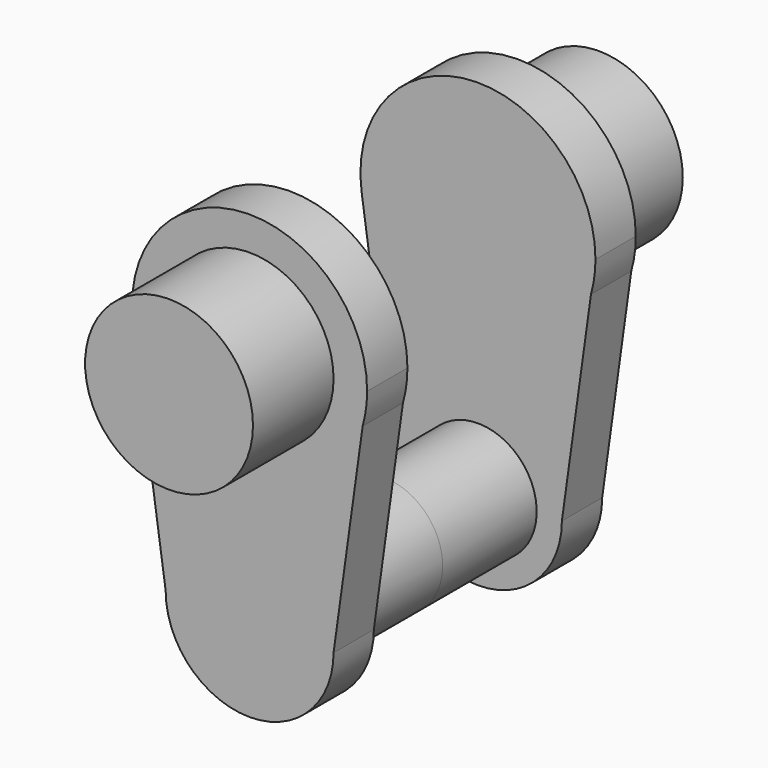
from build123d import *

# Parameters (mm, degrees)
F1_DEPTH = 38.1
F2_R     = 63.5
F3_DEPTH = 76.2
F4_R     = 44.45
F5_DEPTH = 88.9


with BuildPart() as f1:
    # F0 (on Front) → F1 (new body)
    with BuildSketch(Plane.XZ):
        with BuildLine():
            Line((88.9, 0), (85.51811, -24.287093))
            ThreePointArc((85.51811, -24.287093), (88.050468, -12.260711), (88.9, 0))
        make_face()
        with BuildLine():
            Line((63.5, -182.410464), (85.51811, -24.287093))
            Line((85.51811, -24.287093), (88.9, 0))
            ThreePointArc((88.9, 0), (-6.364448, 88.671888), (-87.988724, -12.696234))
            Line((-87.988724, -12.696234), (-63.5, -182.410464))
            ThreePointArc((-63.5, -182.410464), (0, -245.910464), (63.5, -182.410464))
        make_face()
    extrude(amount=F1_DEPTH)

    # F2 (on face) → F3 (join)
    with BuildSketch(Plane.XZ.offset(38.1)):
        Circle(F2_R)
    extrude(amount=F3_DEPTH)

    # F4 (on face) → F5 (join)
    with BuildSketch(Plane(origin=(0, 0, 0), x_dir=(-1, 0, 0), z_dir=(0, 1, 0))):
        with Locations((0, -182.410464)):
            Circle(F4_R)
    extrude(amount=F5_DEPTH)

    # F6: F1 across face


with BuildPart() as f1_1:
    add(f1.part)
    add(f1.part.mirror(Plane(origin=(0, 88.9, -182.410464), x_dir=(-1, 0, 0), z_dir=(0, 1, 0))))


solid = f1_1.part
